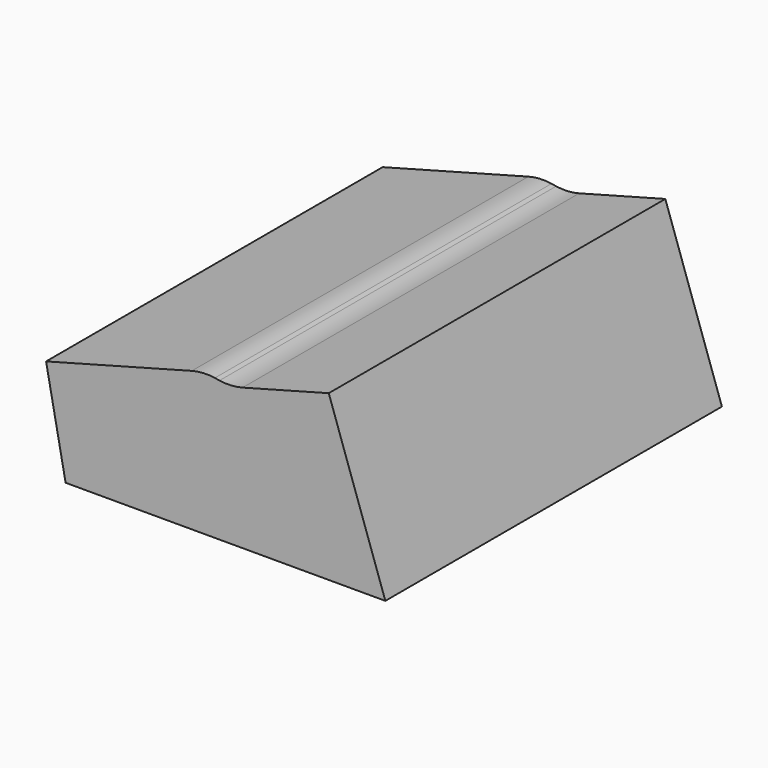
from build123d import *

# Parameters (mm, degrees)
F1_DEPTH = 75
F2_R     = 20


with BuildPart() as f1:
    # F0 (on Front) → F1 (new body, symmetric)
    with BuildSketch(Plane.XZ):
        Polygon((-6.964528, 35.829392), (0, 0), (114, 0), (93.814774, 58.622152), (59.041445, 49.304666), (49.05917, 50.840897), align=None)
    extrude(amount=F1_DEPTH, both=True)

    # F2
    f2_edges = [f1.edges().sort_by_distance(p)[0] for p in [
        (49.05917, 0, 50.840897),
        (59.041445, 0, 49.304666),
    ]]
    fillet(f2_edges, radius=F2_R)


solid = f1.part
